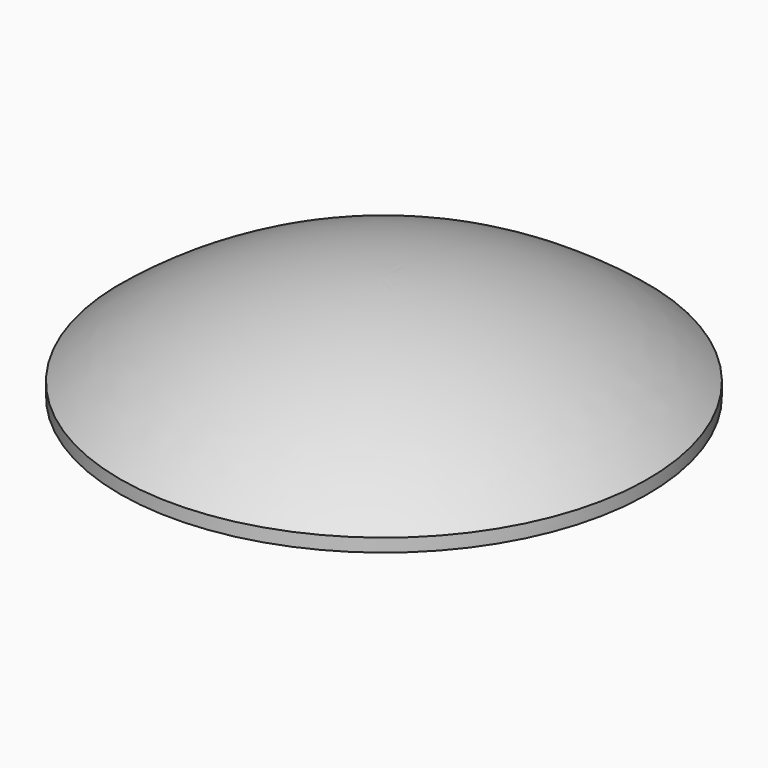
from build123d import *


with BuildPart() as f1:
    # F0 (on Right) → F1 (revolve)
    with BuildSketch(Plane.YZ):
        with BuildLine():
            Line((100, 0), (100, 5))
            ThreePointArc((100, 5), (52.990595, 31.070225), (0, 40.10004))
            Line((0, 40.10004), (0, 0))
            Line((0, 0), (100, 0))
        make_face()
    revolve(axis=Axis((0, 0, 20.05002), (0, 0, 1)))


solid = f1.part
